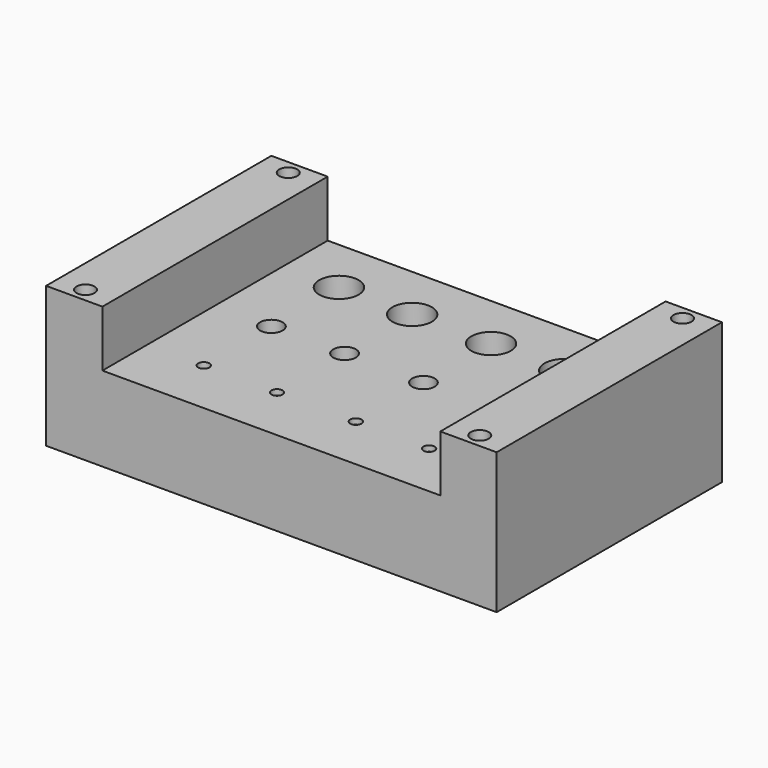
from build123d import *

# Parameters (mm, degrees)
F0_W     = 60
F0_H     = 50
F0_R     = 1
F0_R_2   = 2
F0_R_3   = 3.5
F0_W_2   = 10
F0_R_4   = 1.6
F1_DEPTH = 15
F2_DEPTH = 10
F3_DEPTH = 4
F4_DEPTH = 3
F5_DEPTH = 1


with BuildPart() as f1:
    # F0 (on Top) → F1 (new body)
    with BuildSketch(Plane.XY):
        Rectangle(F0_W, F0_H)
        with Locations((-20, -15)):
            Circle(F0_R, mode=Mode.SUBTRACT)
        with Locations((-7, -15)):
            Circle(F0_R, mode=Mode.SUBTRACT)
        with Locations((7, -15)):
            Circle(F0_R, mode=Mode.SUBTRACT)
        with Locations((20, -15)):
            Circle(F0_R, mode=Mode.SUBTRACT)
        with Locations((-20, 0)):
            Circle(F0_R_2, mode=Mode.SUBTRACT)
        with Locations((-7, 0)):
            Circle(F0_R_2, mode=Mode.SUBTRACT)
        with Locations((-20, 15)):
            Circle(F0_R_3, mode=Mode.SUBTRACT)
        with Locations((-7, 15)):
            Circle(F0_R_3, mode=Mode.SUBTRACT)
        with Locations((7, 0)):
            Circle(F0_R_2, mode=Mode.SUBTRACT)
        with Locations((20, 0)):
            Circle(F0_R_2, mode=Mode.SUBTRACT)
        with Locations((7, 15)):
            Circle(F0_R_3, mode=Mode.SUBTRACT)
        with Locations((20, 15)):
            Circle(F0_R_3, mode=Mode.SUBTRACT)
        with Locations((-35, 0)):
            Rectangle(F0_W_2, F0_H)
        with Locations((-35, -22.5)):
            Circle(F0_R_4, mode=Mode.SUBTRACT)
        with Locations((-35, 22.5)):
            Circle(F0_R_4, mode=Mode.SUBTRACT)
        with Locations((35, 0)):
            Rectangle(F0_W_2, F0_H)
        with Locations((35, -22.5)):
            Circle(F0_R_4, mode=Mode.SUBTRACT)
        with Locations((35, 22.5)):
            Circle(F0_R_4, mode=Mode.SUBTRACT)
        with Locations((-20, 15)):
            Circle(F0_R_3)
        with Locations((-7, 15)):
            Circle(F0_R_3)
        with Locations((7, 15)):
            Circle(F0_R_3)
        with Locations((20, 15)):
            Circle(F0_R_3)
        with Locations((7, 0)):
            Circle(F0_R_2)
        with Locations((20, 0)):
            Circle(F0_R_2)
        with Locations((-7, 0)):
            Circle(F0_R_2)
        with Locations((-20, 0)):
            Circle(F0_R_2)
        with Locations((-20, -15)):
            Circle(F0_R)
        with Locations((-7, -15)):
            Circle(F0_R)
        with Locations((7, -15)):
            Circle(F0_R)
        with Locations((20, -15)):
            Circle(F0_R)
    extrude(amount=-F1_DEPTH)

    # F0 (on Top) → F2 (join)
    with BuildSketch(Plane.XY):
        with Locations((-35, 0)):
            Rectangle(F0_W_2, F0_H)
        with Locations((-35, -22.5)):
            Circle(F0_R_4, mode=Mode.SUBTRACT)
        with Locations((-35, 22.5)):
            Circle(F0_R_4, mode=Mode.SUBTRACT)
        with Locations((35, 0)):
            Rectangle(F0_W_2, F0_H)
        with Locations((35, -22.5)):
            Circle(F0_R_4, mode=Mode.SUBTRACT)
        with Locations((35, 22.5)):
            Circle(F0_R_4, mode=Mode.SUBTRACT)
    extrude(amount=F2_DEPTH)

    # F0 (on Top) → F3 (cut)
    with BuildSketch(Plane.XY):
        with Locations((-20, 15)):
            Circle(F0_R_3)
        with Locations((-7, 15)):
            Circle(F0_R_3)
        with Locations((7, 15)):
            Circle(F0_R_3)
        with Locations((20, 15)):
            Circle(F0_R_3)
    extrude(amount=-F3_DEPTH, mode=Mode.SUBTRACT)

    # F0 (on Top) → F4 (cut)
    with BuildSketch(Plane.XY):
        with Locations((-20, 0)):
            Circle(F0_R_2)
        with Locations((-7, 0)):
            Circle(F0_R_2)
        with Locations((7, 0)):
            Circle(F0_R_2)
        with Locations((20, 0)):
            Circle(F0_R_2)
    extrude(amount=-F4_DEPTH, mode=Mode.SUBTRACT)

    # F0 (on Top) → F5 (cut)
    with BuildSketch(Plane.XY):
        with Locations((-20, -15)):
            Circle(F0_R)
        with Locations((-7, -15)):
            Circle(F0_R)
        with Locations((7, -15)):
            Circle(F0_R)
        with Locations((20, -15)):
            Circle(F0_R)
    extrude(amount=-F5_DEPTH, mode=Mode.SUBTRACT)


solid = f1.part
